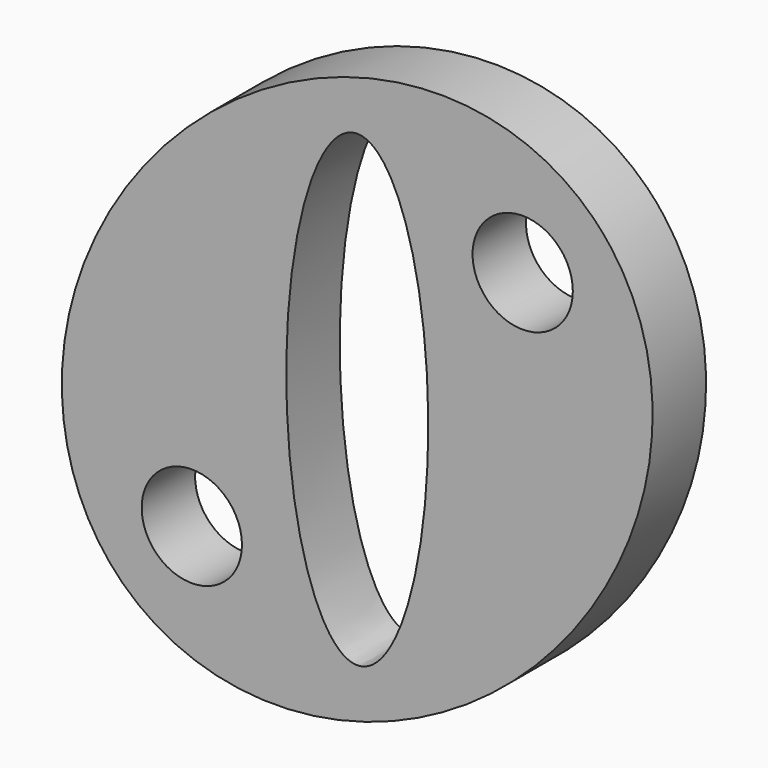
from build123d import *

# Parameters (mm, degrees)
F0_R     = 9.525
F1_DEPTH = 12.7


with BuildPart() as f1:
    # F0 (on Front) → F1 (new body)
    with BuildSketch(Plane.XZ):
        with BuildLine():
            add(Edge.make_bspline(
                [(44.901281, 44.901281), (-13.427194, 103.229755), (-51.614878, 6.713597), (-89.802561, -89.802561), (6.713597, -51.614878), (103.229755, -13.427194), (44.901281, 44.901281)],
                knots=[0, 0, 0, 2.094395, 2.094395, 4.18879, 4.18879, 6.283185, 6.283185, 6.283185], degree=2, weights=[1, 0.5, 1, 0.5, 1, 0.5, 1]))
        make_face()
        with Locations((-31.430896, -31.430896)):
            Circle(F0_R, mode=Mode.SUBTRACT)
        with BuildLine():
            add(Edge.make_bspline(
                [(0, 44.45), (-23.371861, 44.45), (-11.68593, -22.225), (0, -88.9), (11.68593, -22.225), (23.371861, 44.45), (0, 44.45)],
                knots=[0, 0, 0, 2.094395, 2.094395, 4.18879, 4.18879, 6.283185, 6.283185, 6.283185], degree=2, weights=[1, 0.5, 1, 0.5, 1, 0.5, 1]))
        make_face(mode=Mode.SUBTRACT)
        with Locations((31.430896, 31.430896)):
            Circle(F0_R, mode=Mode.SUBTRACT)
    extrude(amount=F1_DEPTH)


solid = f1.part
